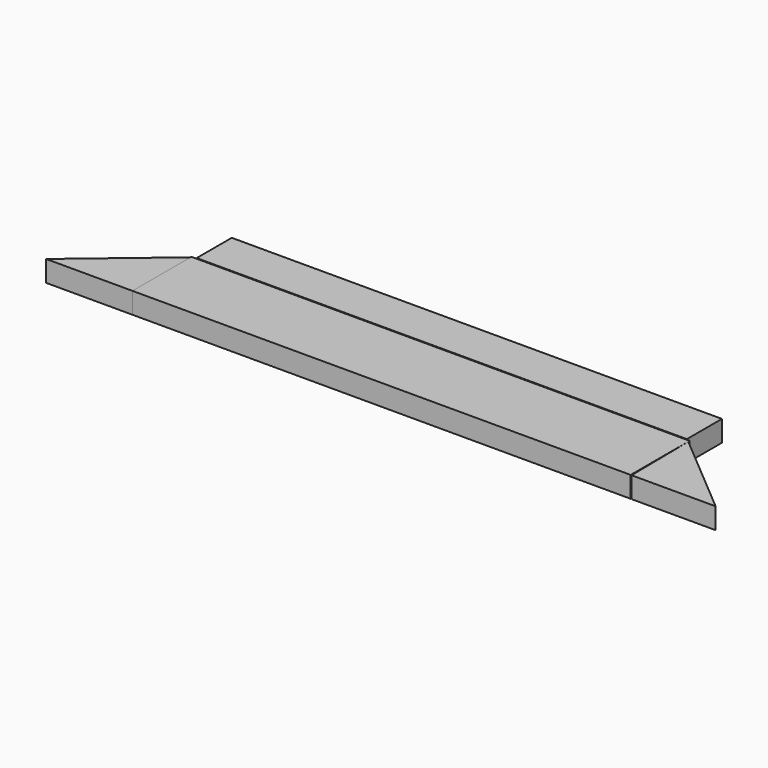
from build123d import *

# Parameters (mm, degrees)
F0_W     = 90.213898
F0_H     = 13.350895
F1_DEPTH = 3.81
F3_DEPTH = 3.81
F5_DEPTH = 3.81
F6_W     = 88.756032
F6_H     = 7.936216
F7_DEPTH = 3.81


with BuildPart() as f1:
    # F0 (on Top) → F1 (new body)
    with BuildSketch(Plane.XY):
        with Locations((-1.621181, 6.675447)):
            Rectangle(F0_W, F0_H)
    extrude(amount=F1_DEPTH)


with BuildPart() as f3:
    # F2 (on Top) → F3 (new body)
    with BuildSketch(Plane.XY):
        Polygon((-46.72813, 0), (-46.72813, 13.160166), (-62.367748, 0), align=None)
    extrude(amount=F3_DEPTH)


with BuildPart() as f5:
    # F4 (on Top) → F5 (new body)
    with BuildSketch(Plane.XY):
        Polygon((58.873754, 0), (43.487221, 13.038067), (43.649182, 0), align=None)
    extrude(amount=F5_DEPTH)


with BuildPart() as f7:
    # F6 (on Top) → F7 (new body)
    with BuildSketch(Plane.XY):
        with Locations((-1.538657, 17.492066)):
            Rectangle(F6_W, F6_H)
    extrude(amount=F7_DEPTH)


solid = Compound([f1.part, f3.part, f5.part, f7.part])
